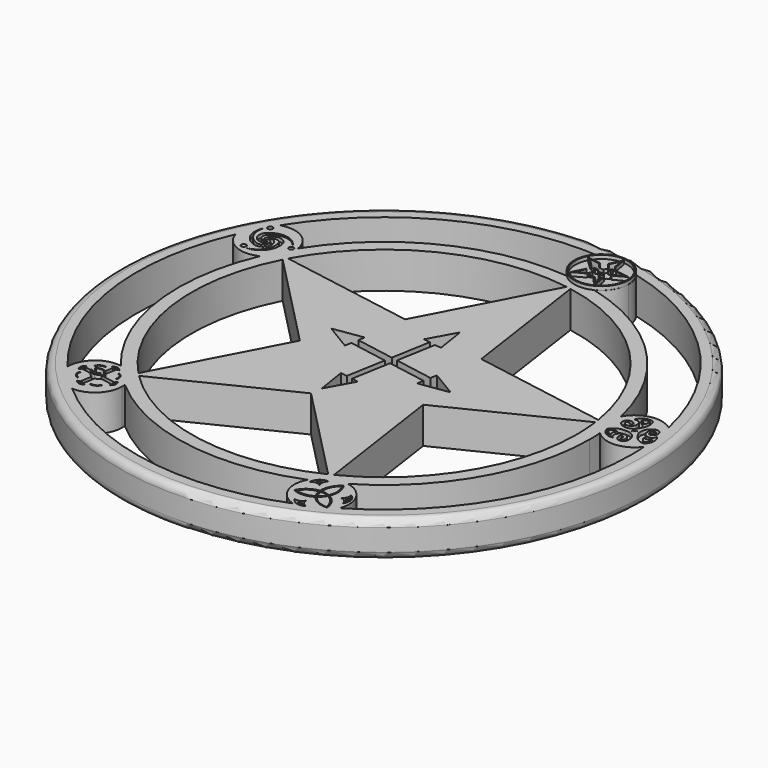
from build123d import *

# Parameters (mm, degrees)
F0_R     = 92.4283709027
F1_DEPTH = 12.7
F2_R     = 2.54
F3_R     = 0.8604920508
F3_R_2   = 0.5765282515
F4_DEPTH = 1.27
F3_R_3   = 9.4978824221
F3_R_4   = 9.1016326017
F5_DEPTH = 1.27
F6_DEPTH = 12.7010001


with BuildPart() as f1:
    # F0 (on Top) → F1 (new body)
    with BuildSketch(Plane.XY):
        with Locations((-145.8070848139, 0)):
            Circle(F0_R)
        with BuildLine():
            ThreePointArc((-56.836883254, 0), (-70.2532959448, -46.9821429178), (-106.4562325292, -79.7947817221))
            ThreePointArc((-106.4562325292, -79.7947817221), (-160.8737724075, -87.6851851259), (-209.5363497373, -62.082828205))
            ThreePointArc((-209.5363497373, -62.082828205), (-233.8565139875, -12.7669412082), (-224.5447892102, 41.4254833649))
            ThreePointArc((-224.5447892102, 41.4254833649), (-185.1579375731, 79.7947814881), (-130.7403976657, 87.6851852025))
            ThreePointArc((-130.7403976657, 87.6851852025), (-82.0778201853, 62.0828285077), (-57.7576556791, 12.7669414757))
            ThreePointArc((-57.7576556791, 12.7669414757), (-57.0673749232, 6.4000511034), (-56.836883254, 0))
        make_face(mode=Mode.SUBTRACT)
        with BuildLine():
            Line((-157.6194526744, 23.9528561759), (-126.6767872766, 18.6360690487))
            Line((-126.6767872766, 18.6360690487), (-133.5896038392, 66.3115099335))
            ThreePointArc((-133.5896038392, 66.3115099335), (-134.3885338318, 66.4537424416), (-135.1891177039, 66.5863496933))
            Line((-135.1891177039, 66.5863496933), (-157.6194526744, 23.9528561759))
        make_face()
        Polygon((-150.3298140815, -26.3214033332), (-122.1715428605, -12.4351320871), (-126.6767872766, 18.6360690487), (-157.6194526744, 23.9528561759), (-172.2378271766, -3.8323898044), align=None)
        with BuildLine():
            Line((-205.8533343033, 30.6746004584), (-172.2378271766, -3.8323898044))
            Line((-172.2378271766, -3.8323898044), (-157.6194526744, 23.9528561759))
            Line((-157.6194526744, 23.9528561759), (-205.0976691919, 32.1108983858))
            ThreePointArc((-205.0976691919, 32.1108983858), (-205.4798232906, 31.3950230724), (-205.8533343033, 30.6746004584))
        make_face()
        with BuildLine():
            Line((-126.6767872766, 18.6360690487), (-122.1715428605, -12.4351320871))
            Line((-122.1715428605, -12.4351320871), (-78.9656819367, 8.8718685984))
            ThreePointArc((-78.9656819367, 8.8718685984), (-79.077293728, 9.6756484361), (-79.1985707591, 10.4780268389))
            Line((-79.1985707591, 10.4780268389), (-126.6767872766, 18.6360690487))
        make_face()
        with BuildLine():
            Line((-115.2587262979, -60.1105729718), (-122.1715428605, -12.4351320871))
            Line((-122.1715428605, -12.4351320871), (-150.3298140815, -26.3214033332))
            Line((-150.3298140815, -26.3214033332), (-116.7143069547, -60.8283935959))
            ThreePointArc((-116.7143069547, -60.8283935959), (-115.9843568427, -60.4738628449), (-115.2587262979, -60.1105729718))
        make_face()
        with BuildLine():
            ThreePointArc((-205.0976691919, 32.1108983858), (-175.6298127851, 60.4738628449), (-135.1891177039, 66.5863496933))
            Line((-135.1891177039, 66.5863496933), (-133.9664258695, 68.9103285578))
            ThreePointArc((-133.9664258695, 68.9103285578), (-176.7322653602, 62.7093915962), (-207.6857369904, 32.5555984586))
            Line((-207.6857369904, 32.5555984586), (-205.0976691919, 32.1108983858))
        make_face()
        with BuildLine():
            ThreePointArc((-207.6857369904, 32.5555984586), (-176.7322653602, 62.7093915962), (-133.9664258695, 68.9103285578))
            ThreePointArc((-133.9664258695, 68.9103285578), (-136.8257263119, 69.8879990265), (-139.2348929998, 71.7121027611))
            ThreePointArc((-139.2348929998, 71.7121027611), (-177.6577323205, 64.5860328637), (-206.7013442969, 38.4409748794))
            ThreePointArc((-206.7013442969, 38.4409748794), (-206.6180739716, 37.7178816069), (-206.590263062, 36.9905409845))
            ThreePointArc((-206.590263062, 36.9905409845), (-206.8681862041, 34.7064230839), (-207.6857369904, 32.5555984586))
        make_face()
        with BuildLine():
            Line((-207.6857369904, 32.5555984586), (-205.8533343033, 30.6746004584))
            ThreePointArc((-205.8533343033, 30.6746004584), (-205.4798232906, 31.3950230724), (-205.0976691919, 32.1108983858))
            Line((-205.0976691919, 32.1108983858), (-207.6857369904, 32.5555984586))
        make_face()
        with BuildLine():
            Line((-195.8908539814, -48.7898621863), (-194.668162147, -46.4658833218))
            ThreePointArc((-194.668162147, -46.4658833218), (-212.5368758998, -9.6756484361), (-205.8533343033, 30.6746004584))
            Line((-205.8533343033, 30.6746004584), (-207.6857369904, 32.5555984586))
            ThreePointArc((-207.6857369904, 32.5555984586), (-215.0036666672, -10.033326766), (-195.8908539814, -48.7898621863))
        make_face()
        with BuildLine():
            ThreePointArc((-211.9784284812, 28.4107843067), (-209.4991292892, 30.1383589306), (-207.6857369904, 32.5555984586))
            ThreePointArc((-207.6857369904, 32.5555984586), (-206.8681862041, 34.7064230839), (-206.590263062, 36.9905409845))
            ThreePointArc((-206.590263062, 36.9905409845), (-206.6180739716, 37.7178816069), (-206.7013442969, 38.4409748794))
            ThreePointArc((-206.7013442969, 38.4409748794), (-209.5375175499, 33.5298573057), (-211.9784284812, 28.4107843067))
        make_face()
        with BuildLine():
            ThreePointArc((-201.1839855058, -46.0349677682), (-198.3161187255, -46.9872170504), (-195.8908539814, -48.7898621863))
            ThreePointArc((-195.8908539814, -48.7898621863), (-215.0036666672, -10.033326766), (-207.6857369904, 32.5555984586))
            ThreePointArc((-207.6857369904, 32.5555984586), (-209.4991292892, 30.1383589306), (-211.9784284812, 28.4107843067))
            ThreePointArc((-211.9784284812, 28.4107843067), (-217.074443592, -10.3335841052), (-201.1839855058, -46.0349677682))
        make_face()
        with BuildLine():
            ThreePointArc((-225.2754386453, 34.3796391704), (-220.015941952, 28.3008730278), (-211.9784284812, 28.4107843067))
            ThreePointArc((-211.9784284812, 28.4107843067), (-209.5375175499, 33.5298573057), (-206.7013442969, 38.4409748794))
            ThreePointArc((-206.7013442969, 38.4409748794), (-211.1633180534, 45.1271167773), (-219.1520077235, 46.0184868672))
            ThreePointArc((-219.1520077235, 46.0184868672), (-222.4350175866, 40.3154904367), (-225.2754386453, 34.3796391704))
        make_face()
        with BuildLine():
            ThreePointArc((-224.5447892102, 41.4254833649), (-225.5894586402, 37.9730088701), (-225.2754386453, 34.3796391704))
            ThreePointArc((-225.2754386453, 34.3796391704), (-222.4350175866, 40.3154904367), (-219.1520077235, 46.0184868672))
            ThreePointArc((-219.1520077235, 46.0184868672), (-222.2912457258, 44.2419452028), (-224.5447892102, 41.4254833649))
        make_face()
        with BuildLine():
            ThreePointArc((-209.5363497373, -62.082828205), (-211.5185806892, -59.0692465166), (-212.2380942492, -55.534672373))
            ThreePointArc((-212.2380942492, -55.534672373), (-231.4972353885, -12.4248518976), (-225.2754386453, 34.3796391704))
            ThreePointArc((-225.2754386453, 34.3796391704), (-225.5894586402, 37.9730088701), (-224.5447892102, 41.4254833649))
            ThreePointArc((-224.5447892102, 41.4254833649), (-233.8565139875, -12.7669412082), (-209.5363497373, -62.082828205))
        make_face()
        with BuildLine():
            Line((-193.5356750053, -47.6284040187), (-150.3298140815, -26.3214033332))
            Line((-150.3298140815, -26.3214033332), (-172.2378271766, -3.8323898044))
            Line((-172.2378271766, -3.8323898044), (-194.668162147, -46.4658833218))
            ThreePointArc((-194.668162147, -46.4658833218), (-194.1054163763, -47.0505511052), (-193.5356750053, -47.6284040187))
        make_face()
        with BuildLine():
            Line((-195.8908539814, -48.7898621863), (-193.5356750053, -47.6284040187))
            ThreePointArc((-193.5356750053, -47.6284040187), (-194.1054163763, -47.0505511052), (-194.668162147, -46.4658833218))
            Line((-194.668162147, -46.4658833218), (-195.8908539814, -48.7898621863))
        make_face()
        with BuildLine():
            ThreePointArc((-193.2754160956, -54.1532724125), (-194.1522916146, -51.2614688423), (-195.8908539814, -48.7898621863))
            ThreePointArc((-195.8908539814, -48.7898621863), (-198.3161187255, -46.9872170504), (-201.1839855058, -46.0349677682))
            ThreePointArc((-201.1839855058, -46.0349677682), (-197.3896608692, -50.2499476135), (-193.2754160956, -54.1532724125))
        make_face()
        with BuildLine():
            ThreePointArc((-193.1886017807, -55.4363452764), (-193.2103301427, -54.7933420301), (-193.2754160956, -54.1532724125))
            ThreePointArc((-193.2754160956, -54.1532724125), (-197.3896608692, -50.2499476135), (-201.1839855058, -46.0349677682))
            ThreePointArc((-201.1839855058, -46.0349677682), (-208.9217100459, -48.2124255116), (-212.2380942492, -55.534672373))
            ThreePointArc((-212.2380942492, -55.534672373), (-207.828728172, -60.4193231122), (-203.0611365237, -64.9550029865))
            ThreePointArc((-203.0611365237, -64.9550029865), (-196.102423498, -62.2933086505), (-193.1886017807, -55.4363452764))
        make_face()
        with BuildLine():
            ThreePointArc((-203.0611365237, -64.9550029865), (-207.828728172, -60.4193231122), (-212.2380942492, -55.534672373))
            ThreePointArc((-212.2380942492, -55.534672373), (-211.5185806892, -59.0692465166), (-209.5363497373, -62.082828205))
            ThreePointArc((-209.5363497373, -62.082828205), (-206.5756718852, -64.1432413656), (-203.0611365237, -64.9550029865))
        make_face()
        with BuildLine():
            ThreePointArc((-116.7143069547, -60.8283935959), (-157.225635796, -66.4537424416), (-193.5356750053, -47.6284040187))
            Line((-193.5356750053, -47.6284040187), (-195.8908539814, -48.7898621863))
            ThreePointArc((-195.8908539814, -48.7898621863), (-157.6477437583, -68.9103285578), (-114.8819042676, -62.7093915962))
            Line((-114.8819042676, -62.7093915962), (-116.7143069547, -60.8283935959))
        make_face()
        with BuildLine():
            ThreePointArc((-119.1376321501, -66.8921496311), (-117.3457696924, -64.458907453), (-114.8819042676, -62.7093915962))
            ThreePointArc((-114.8819042676, -62.7093915962), (-157.6477437583, -68.9103285578), (-195.8908539814, -48.7898621863))
            ThreePointArc((-195.8908539814, -48.7898621863), (-194.1522916146, -51.2614688423), (-193.2754160956, -54.1532724125))
            ThreePointArc((-193.2754160956, -54.1532724125), (-158.0020873206, -70.9725390663), (-119.1376321501, -66.8921496311))
        make_face()
        with BuildLine():
            ThreePointArc((-106.4562325292, -79.7947817221), (-109.9348620248, -80.7487473718), (-113.5187836422, -80.3408019478))
            ThreePointArc((-113.5187836422, -80.3408019478), (-160.4700612308, -85.3356664752), (-203.0611365237, -64.9550029865))
            ThreePointArc((-203.0611365237, -64.9550029865), (-206.5756718852, -64.1432413656), (-209.5363497373, -62.082828205))
            ThreePointArc((-209.5363497373, -62.082828205), (-160.8737724075, -87.6851851259), (-106.4562325292, -79.7947817221))
        make_face()
        with BuildLine():
            Line((-114.8819042676, -62.7093915962), (-115.2587262979, -60.1105729718))
            ThreePointArc((-115.2587262979, -60.1105729718), (-115.9843568427, -60.4738628449), (-116.7143069547, -60.8283935959))
            Line((-116.7143069547, -60.8283935959), (-114.8819042676, -62.7093915962))
        make_face()
        with BuildLine():
            ThreePointArc((-108.9727832679, -61.8793472596), (-111.9940213346, -61.8196889884), (-114.8819042676, -62.7093915962))
            ThreePointArc((-114.8819042676, -62.7093915962), (-117.3457696924, -64.458907453), (-119.1376321501, -66.8921496311))
            ThreePointArc((-119.1376321501, -66.8921496311), (-113.9564373073, -64.5860328637), (-108.9727832679, -61.8793472596))
        make_face()
        with BuildLine():
            ThreePointArc((-78.3794703594, 0), (-88.3341079845, -35.2610284222), (-115.2587262979, -60.1105729718))
            Line((-115.2587262979, -60.1105729718), (-114.8819042676, -62.7093915962))
            ThreePointArc((-114.8819042676, -62.7093915962), (-86.4306187551, -36.9224845393), (-75.886883254, 0))
            ThreePointArc((-75.886883254, 0), (-76.0680228162, 5.0296936158), (-76.6105029605, 10.033326766))
            Line((-76.6105029605, 10.033326766), (-78.9656819367, 8.8718685984))
            ThreePointArc((-78.9656819367, 8.8718685984), (-78.5261828661, 4.4456072825), (-78.3794703594, 0))
        make_face()
        with BuildLine():
            ThreePointArc((-75.886883254, 0), (-86.4306187551, -36.9224845393), (-114.8819042676, -62.7093915962))
            ThreePointArc((-114.8819042676, -62.7093915962), (-111.9940213346, -61.8196889884), (-108.9727832679, -61.8793472596))
            ThreePointArc((-108.9727832679, -61.8793472596), (-83.2037524499, -35.5899166139), (-73.7944512857, 0))
            ThreePointArc((-73.7944512857, 0), (-73.8327376206, 2.3479211568), (-73.9475559144, 4.6933457156))
            ThreePointArc((-73.9475559144, 4.6933457156), (-75.7079907927, 7.1494213668), (-76.6105029605, 10.033326766))
            ThreePointArc((-76.6105029605, 10.033326766), (-76.0680228162, 5.0296936158), (-75.886883254, 0))
        make_face()
        with BuildLine():
            ThreePointArc((-101.1440682326, -71.2520865774), (-103.3587078007, -65.1460031063), (-108.9727832679, -61.8793472596))
            ThreePointArc((-108.9727832679, -61.8793472596), (-113.9564373073, -64.5860328637), (-119.1376321501, -66.8921496311))
            ThreePointArc((-119.1376321501, -66.8921496311), (-119.457835155, -74.9240344235), (-113.5187836422, -80.3408019478))
            ThreePointArc((-113.5187836422, -80.3408019478), (-107.5106356746, -77.6566856973), (-101.7236809327, -74.5240387554))
            ThreePointArc((-101.7236809328, -74.5240387554), (-101.2900907022, -72.9135333819), (-101.1440682326, -71.2520865774))
        make_face()
        with BuildLine():
            ThreePointArc((-101.7236809327, -74.5240387554), (-107.5106356746, -77.6566856973), (-113.5187836422, -80.3408019478))
            ThreePointArc((-113.5187836422, -80.3408019478), (-109.9348620248, -80.7487473718), (-106.4562325292, -79.7947817221))
            ThreePointArc((-106.4562325292, -79.7947817221), (-103.5817633142, -77.6157124301), (-101.7236809328, -74.5240387554))
        make_face()
        with BuildLine():
            ThreePointArc((-57.6590793026, 11.4001340022), (-58.1101940842, 8.5035442759), (-59.4208078155, 5.8813260858))
            ThreePointArc((-59.4208078155, 5.8813260858), (-59.2708418076, 2.9423624055), (-59.2208338836, 0))
            ThreePointArc((-59.2208338836, 0), (-70.5934041418, -42.896166378), (-101.7236809327, -74.5240387554))
            ThreePointArc((-101.7236809328, -74.5240387554), (-103.5817633142, -77.6157124301), (-106.4562325292, -79.7947817221))
            ThreePointArc((-106.4562325292, -79.7947817221), (-70.2532959448, -46.9821429178), (-56.836883254, 0))
            ThreePointArc((-56.836883254, 0), (-57.0673749232, 6.4000511034), (-57.7576556791, 12.7669414757))
            ThreePointArc((-57.7576556791, 12.7669414757), (-57.6837553604, 12.0853128058), (-57.6590793026, 11.4001340022))
        make_face()
        with BuildLine():
            ThreePointArc((-75.5739032249, 15.9097326044), (-76.5642555192, 13.0547998735), (-76.6105029605, 10.033326766))
            ThreePointArc((-76.6105029605, 10.033326766), (-75.7079907927, 7.1494213668), (-73.9475559144, 4.6933457156))
            ThreePointArc((-73.9475559144, 4.6933457156), (-74.5397260358, 10.3335841052), (-75.5739032249, 15.9097326044))
        make_face()
        with BuildLine():
            ThreePointArc((-79.1985707591, 10.4780268389), (-79.077293728, 9.6756484361), (-78.9656819367, 8.8718685984))
            Line((-78.9656819367, 8.8718685984), (-76.6105029605, 10.033326766))
            Line((-76.6105029605, 10.033326766), (-79.1985707591, 10.4780268389))
        make_face()
        with BuildLine():
            ThreePointArc((-133.5896038392, 66.3115099335), (-97.5087532515, 47.0505511052), (-79.1985707591, 10.4780268389))
            Line((-79.1985707591, 10.4780268389), (-76.6105029605, 10.033326766))
            ThreePointArc((-76.6105029605, 10.033326766), (-95.7233156464, 48.7898621863), (-133.9664258695, 68.9103285578))
            Line((-133.9664258695, 68.9103285578), (-133.5896038392, 66.3115099335))
        make_face()
        with BuildLine():
            ThreePointArc((-133.9664258695, 68.9103285578), (-95.7233156464, 48.7898621863), (-76.6105029605, 10.033326766))
            ThreePointArc((-76.6105029605, 10.033326766), (-76.5642555192, 13.0547998735), (-75.5739032249, 15.9097326044))
            ThreePointArc((-75.5739032249, 15.9097326044), (-94.2245087586, 50.2499476135), (-128.0649062022, 69.7927968043))
            ThreePointArc((-128.0649062022, 69.7927968043), (-130.9447772497, 68.8774928575), (-133.9664258695, 68.9103285578))
        make_face()
        with BuildLine():
            ThreePointArc((-61.3079911658, 18.8966140568), (-69.1360224632, 20.7229845801), (-75.5739032249, 15.9097326044))
            ThreePointArc((-75.5739032249, 15.9097326044), (-74.5397260358, 10.3335841052), (-73.9475559144, 4.6933457156))
            ThreePointArc((-73.9475559144, 4.6933457156), (-66.4077277146, 1.9068256636), (-59.4208078155, 5.8813260858))
            ThreePointArc((-59.4208078155, 5.8813260858), (-60.1169342393, 12.4248518976), (-61.3079911658, 18.8966140568))
        make_face()
        with BuildLine():
            ThreePointArc((-57.7576556791, 12.7669414757), (-58.9418139567, 16.1740932572), (-61.3079911658, 18.8966140568))
            ThreePointArc((-61.3079911658, 18.8966140568), (-60.1169342393, 12.4248518976), (-59.4208078155, 5.8813260858))
            ThreePointArc((-59.4208078155, 5.8813260858), (-58.1101940842, 8.5035442759), (-57.6590793026, 11.4001340022))
            ThreePointArc((-57.6590793026, 11.4001340022), (-57.6837553604, 12.0853128058), (-57.7576556791, 12.7669414757))
        make_face()
        with BuildLine():
            ThreePointArc((-124.705730639, 83.9756613678), (-83.7854414558, 60.4193231122), (-61.3079911658, 18.8966140568))
            ThreePointArc((-61.3079911658, 18.8966140568), (-58.9418139567, 16.1740932572), (-57.7576556791, 12.7669414757))
            ThreePointArc((-57.7576556791, 12.7669414757), (-82.0778201853, 62.0828285077), (-130.7403976657, 87.6851852025))
            ThreePointArc((-130.7403976657, 87.6851852025), (-127.3654000532, 86.4122725579), (-124.705730639, 83.9756613678))
        make_face()
        with BuildLine():
            ThreePointArc((-219.1520077235, 46.0184868672), (-184.1035339532, 77.6566856973), (-137.6671768019, 86.2027885148))
            ThreePointArc((-137.6671768019, 86.2027885148), (-134.3467166437, 87.6118515825), (-130.7403976657, 87.6851852025))
            ThreePointArc((-130.7403976657, 87.6851852025), (-185.1579375731, 79.7947814881), (-224.5447892102, 41.4254833649))
            ThreePointArc((-224.5447892102, 41.4254833649), (-222.2912457258, 44.2419452028), (-219.1520077235, 46.0184868672))
        make_face()
        with BuildLine():
            ThreePointArc((-130.7403976657, 87.6851852025), (-134.3467166437, 87.6118515825), (-137.6671768019, 86.2027885148))
            ThreePointArc((-137.6671768019, 86.2027885148), (-131.144108397, 85.3356664752), (-124.705730639, 83.9756613678))
            ThreePointArc((-124.705730639, 83.9756613678), (-127.3654000532, 86.4122725579), (-130.7403976657, 87.6851852025))
        make_face()
        with BuildLine():
            ThreePointArc((-137.6671768019, 86.2027885148), (-141.8231530927, 79.3222678693), (-139.2348929998, 71.7121027611))
            ThreePointArc((-139.2348929998, 71.7121027611), (-133.6120823072, 70.9725390663), (-128.0649062022, 69.7927968043))
            ThreePointArc((-128.0649062022, 69.7927968043), (-124.2425042273, 73.3038801057), (-122.8284116915, 78.2977568671))
            ThreePointArc((-122.8284116915, 78.2977568671), (-123.3099116217, 81.2878624651), (-124.705730639, 83.9756613678))
            ThreePointArc((-124.705730639, 83.9756613678), (-131.144108397, 85.3356664752), (-137.6671768019, 86.2027885148))
        make_face()
        with BuildLine():
            ThreePointArc((-139.2348929998, 71.7121027611), (-136.8257263119, 69.8879990265), (-133.9664258695, 68.9103285578))
            ThreePointArc((-133.9664258695, 68.9103285578), (-130.9447772497, 68.8774928575), (-128.0649062022, 69.7927968043))
            ThreePointArc((-128.0649062022, 69.7927968043), (-133.6120823072, 70.9725390663), (-139.2348929998, 71.7121027611))
        make_face()
        with BuildLine():
            ThreePointArc((-135.1891177039, 66.5863496933), (-134.3885338318, 66.4537424416), (-133.5896038392, 66.3115099335))
            Line((-133.5896038392, 66.3115099335), (-133.9664258695, 68.9103285578))
            Line((-133.9664258695, 68.9103285578), (-135.1891177039, 66.5863496933))
        make_face()
    extrude(amount=F1_DEPTH)

    # F2
    f2_edges = [f1.edges().sort_by_distance(p)[0] for p in [
        (-238.235456, 0, 12.7),
        (-238.235456, 0, 0),
    ]]
    fillet(f2_edges, radius=F2_R)

    # F3 (on face) → F4 (cut)
    with BuildSketch(Plane.XY.offset(12.7)):
        with Locations((-220.2107012272, 43.2026311755)):
            Circle(F3_R)
        with Locations((-219.421222806, 30.5718611926)):
            Circle(F3_R)
        with Locations((-208.2211375237, 37.3777449131)):
            Circle(F3_R)
        with BuildLine():
            Line((-203.8917711863, -49.39728311), (-203.8272794631, -49.0315323727))
            ThreePointArc((-203.8272794631, -49.0315323727), (-205.6652610461, -49.2550670924), (-206.8441545547, -50.6827765045))
            Line((-206.8441545547, -50.6827765045), (-206.5361198449, -50.7370913348))
            ThreePointArc((-206.5361198449, -50.7370913348), (-205.4718845911, -49.5580988054), (-203.8917711863, -49.39728311))
        make_face()
        with BuildLine():
            Line((-207.3961431722, -55.9520267455), (-207.7618939094, -55.8875350223))
            ThreePointArc((-207.7618939094, -55.8875350223), (-207.5383591898, -57.7255166053), (-206.1106497777, -58.9044101139))
            Line((-206.1106497777, -58.9044101139), (-206.0563349474, -58.5963754041))
            ThreePointArc((-206.0563349474, -58.5963754041), (-207.2353274768, -57.5321401503), (-207.3961431722, -55.9520267455))
        make_face()
        with BuildLine():
            Line((-200.8413995366, -59.4563987314), (-200.9058912598, -59.8221494687))
            ThreePointArc((-200.9058912598, -59.8221494687), (-199.0679096769, -59.598614749), (-197.8890161683, -58.1709053369))
            Line((-197.8890161683, -58.1709053369), (-198.197050878, -58.1165905066))
            ThreePointArc((-198.197050878, -58.1165905066), (-199.2612861318, -59.2955830361), (-200.8413995366, -59.4563987314))
        make_face()
        with BuildLine():
            Line((-197.3370275508, -52.9016550959), (-196.9712768135, -52.9661468191))
            ThreePointArc((-196.9712768135, -52.9661468191), (-197.1948115331, -51.1281652361), (-198.6225209453, -49.9492717275))
            Line((-198.6225209453, -49.9492717275), (-198.6768357756, -50.2573064373))
            ThreePointArc((-198.6768357756, -50.2573064373), (-197.4978432461, -51.3215416911), (-197.3370275508, -52.9016550959))
        make_face()
        with BuildLine():
            ThreePointArc((-67.0809522271, 11.4335455), (-67.0153158531, 11.4502539008), (-67.0328512788, 11.5156741813))
            ThreePointArc((-67.0328512788, 11.5156741813), (-67.3830919096, 11.5199904246), (-67.4067661166, 11.1705241725))
            ThreePointArc((-67.4067661166, 11.1705241725), (-66.6227977388, 11.2311808774), (-66.7643994093, 12.0046371594))
            ThreePointArc((-66.7643994093, 12.0046371594), (-67.888820211, 11.7003609825), (-67.5505772233, 10.5856871232))
            ThreePointArc((-67.5505772233, 10.5856871232), (-67.7974574251, 10.8953488731), (-67.8750351071, 11.2837068737))
            ThreePointArc((-67.8750351071, 11.2837068737), (-67.7872601719, 11.6872047041), (-67.4816891551, 11.9649479166))
            ThreePointArc((-67.4816891551, 11.9649479166), (-66.9644925203, 12.0332196218), (-66.5824040771, 11.6780269891))
            ThreePointArc((-66.5824040771, 11.6780269891), (-66.7156533226, 11.233918159), (-67.1624466777, 11.109967716))
            ThreePointArc((-67.1624466777, 11.109967716), (-67.3427834614, 11.3274375625), (-67.0809522271, 11.4335455))
        make_face()
        with BuildLine():
            ThreePointArc((-211.6691318504, 37.6715191678), (-214.5939473092, 40.2117420585), (-217.5877091638, 37.7531514541))
            ThreePointArc((-217.5877091638, 37.7531514541), (-217.0805228114, 38.0526889108), (-216.5683021248, 37.7618441889))
            ThreePointArc((-216.5683021248, 37.7618441889), (-214.4815123705, 38.9464761489), (-212.7712217323, 37.2633391098))
            ThreePointArc((-212.7712217323, 37.2633391098), (-213.7863400024, 32.3789027444), (-218.0775252334, 29.8345142082))
            ThreePointArc((-218.0775252334, 29.8345142082), (-213.0247148164, 32.2413876884), (-211.6691318504, 37.6715191678))
        make_face()
        with BuildLine():
            ThreePointArc((-217.5877091638, 37.7531514541), (-217.3498348034, 36.9453325873), (-216.5486585279, 37.2047012598))
            ThreePointArc((-216.5486585279, 37.2047012598), (-216.5032502303, 37.3313680979), (-216.4878449037, 37.465043366))
            ThreePointArc((-216.4878449037, 37.465043366), (-216.5083157507, 37.6187997422), (-216.5683021248, 37.7618441889))
            ThreePointArc((-216.5683021248, 37.7618441889), (-217.0805228114, 38.0526889108), (-217.5877091638, 37.7531514541))
        make_face()
        with BuildLine():
            ThreePointArc((-214.7185999713, 37.8844114796), (-215.5371287798, 38.0823156941), (-215.7130971321, 37.2587923929))
            ThreePointArc((-215.7130971321, 37.2587923929), (-215.4999258615, 37.0659177185), (-215.2207753616, 36.9972327196))
            ThreePointArc((-215.2207753616, 36.9972327196), (-214.807452611, 37.1705615953), (-214.6365406605, 37.5848896062))
            ThreePointArc((-214.6365406605, 37.5848896062), (-214.6574266373, 37.7401692597), (-214.7185999713, 37.8844114796))
        make_face()
        with BuildLine():
            ThreePointArc((-217.7485842617, 32.7995893151), (-214.0862789777, 34.0624423584), (-214.7185999713, 37.8844114796))
            ThreePointArc((-214.7185999713, 37.8844114796), (-214.6574266373, 37.7401692597), (-214.6365406605, 37.5848896062))
            ThreePointArc((-214.6365406605, 37.5848896062), (-214.807452611, 37.1705615953), (-215.2207753616, 36.9972327196))
            ThreePointArc((-215.2207753616, 36.9972327196), (-215.2382488673, 34.5977038), (-217.5510336203, 33.958117179))
            ThreePointArc((-217.5510336203, 33.958117179), (-221.2735204608, 37.2794535715), (-221.3314329548, 42.267923262))
            ThreePointArc((-221.3314329548, 42.267923262), (-221.7734245857, 36.6886243402), (-217.7485842617, 32.7995893151))
        make_face()
        with BuildLine():
            ThreePointArc((-215.4584028935, 35.9216899814), (-215.6441728306, 36.3504454129), (-216.0840335599, 36.5081293641))
            ThreePointArc((-216.0840335599, 36.5081293641), (-216.3576535243, 36.4199549521), (-216.5567116997, 36.2125460451))
            ThreePointArc((-216.5567116997, 36.2125460451), (-216.5524802741, 35.6235275572), (-216.039480051, 35.3340600199))
            ThreePointArc((-216.039480051, 35.3340600199), (-215.628203212, 35.508483122), (-215.4584028935, 35.9216899814))
        make_face()
        with BuildLine():
            ThreePointArc((-216.039480051, 35.3340600199), (-216.5524802741, 35.6235275572), (-216.5567116997, 36.2125460451))
            ThreePointArc((-216.5567116997, 36.2125460451), (-218.6260279483, 37.4274430047), (-218.0235338335, 39.7501666647))
            ThreePointArc((-218.0235338335, 39.7501666647), (-213.2859287228, 41.3132666376), (-208.9368309979, 38.8691854834))
            ThreePointArc((-208.9368309979, 38.8691854834), (-213.547649784, 42.0416109249), (-218.928073074, 40.5005144707))
            ThreePointArc((-218.928073074, 40.5005144707), (-219.6655628992, 36.6974385367), (-216.039480051, 35.3340600199))
        make_face()
        with BuildLine():
            ThreePointArc((-114.336040294, -67.5487584306), (-114.8450023373, -65.698024323), (-113.8471066952, -64.0583708882))
            ThreePointArc((-113.8471066952, -64.0583708882), (-116.6471942603, -64.887850953), (-117.8605034947, -67.5442410319))
            ThreePointArc((-117.8605034947, -67.5442410319), (-116.0972901438, -66.7805403999), (-114.336040294, -67.5487584306))
        make_face()
        with Locations((-116.0165071487, -65.6311884522)):
            Circle(F3_R_2, mode=Mode.SUBTRACT)
        with BuildLine():
            ThreePointArc((-105.6909567835, -69.7094492701), (-103.8143230631, -70.1125683317), (-102.8207096326, -71.7548202763))
            ThreePointArc((-102.8207096326, -71.7548202763), (-102.2635308859, -68.8881010027), (-104.0595338066, -66.5852981325))
            ThreePointArc((-104.0595338066, -66.5852981325), (-104.1962843923, -68.5019251837), (-105.6909567835, -69.7094492701))
        make_face()
        with Locations((-103.2140981995, -69.1042922435)):
            Circle(F3_R_2, mode=Mode.SUBTRACT)
        with BuildLine():
            ThreePointArc((-111.5993682876, -76.3800359989), (-112.8234722803, -77.8584907712), (-114.7389671695, -77.9815290899))
            ThreePointArc((-114.7389671695, -77.9815290899), (-112.4534326317, -79.7994563235), (-109.5815196812, -79.2696983082))
            ThreePointArc((-109.5815196812, -79.2696983082), (-111.2184442455, -78.2633991743), (-111.5993682876, -76.3800359989))
        make_face()
        with Locations((-112.2062734655, -78.856466813)):
            Circle(F3_R_2, mode=Mode.SUBTRACT)
        with BuildLine():
            ThreePointArc((-72.1006989479, 13.3701832965), (-72.2387171618, 14.3466602018), (-71.2622404099, 14.2086409032))
            ThreePointArc((-71.2622404099, 14.2086409032), (-70.3755989437, 14.1829940206), (-70.5311596394, 15.0562589988))
            ThreePointArc((-70.5311596394, 15.0562589988), (-72.9319617102, 14.9990327298), (-72.8991255164, 12.5977732241))
            ThreePointArc((-72.8991255164, 12.5977732241), (-69.702816169, 11.7555599643), (-67.1739429235, 13.8840610161))
            ThreePointArc((-67.1739429235, 13.8840610161), (-66.2660186501, 16.3883486978), (-66.771261394, 19.0037861466))
            ThreePointArc((-66.771261394, 19.0037861466), (-69.760598813, 18.9553519209), (-71.7137157917, 16.6917666793))
            ThreePointArc((-71.7137157917, 16.6917666793), (-69.9715849927, 16.6103465169), (-69.1983401775, 15.0470994413))
            ThreePointArc((-69.1983401775, 15.0470994413), (-70.0307857182, 13.1377544282), (-72.1006989479, 13.3701832965))
        make_face()
        with BuildLine():
            ThreePointArc((-67.557439208, 18.4860620648), (-67.4113620435, 17.1130960179), (-68.1326910853, 15.9357860684))
            ThreePointArc((-68.1326910853, 15.9357860684), (-68.626643594, 17.1274805348), (-69.8009133339, 17.6615361124))
            ThreePointArc((-69.8009133339, 17.6615361124), (-68.7960073041, 18.3916876877), (-67.557439208, 18.4860620648))
        make_face(mode=Mode.SUBTRACT)
        with BuildLine():
            ThreePointArc((-69.3402913873, 10.166948857), (-71.9630302748, 9.7010905017), (-73.9754441755, 7.955818726))
            ThreePointArc((-73.9754441755, 7.955818726), (-72.4388301961, 5.3911936936), (-69.5019493839, 4.8315373942))
            ThreePointArc((-69.5019493839, 4.8315373942), (-70.3025028544, 6.380977004), (-69.3353135821, 7.8322501951))
            ThreePointArc((-69.3353135821, 7.8322501951), (-67.2655495258, 8.0660037161), (-66.4318822155, 6.1571918415))
            ThreePointArc((-66.4318822155, 6.1571918415), (-67.2085269147, 5.5494261094), (-67.577237072, 6.4640894321))
            ThreePointArc((-67.577237072, 6.4640894321), (-67.9983469532, 7.2447669072), (-68.6768362607, 6.6734149038))
            ThreePointArc((-68.6768362607, 6.6734149038), (-67.4268758225, 4.6228724555), (-65.3637421864, 5.8519391863))
            ThreePointArc((-65.3637421864, 5.8519391863), (-66.2325187817, 9.0411309094), (-69.3402913873, 10.166948857))
        make_face()
        with BuildLine():
            ThreePointArc((-71.2981955777, 6.0031881985), (-72.4329784054, 6.5083865611), (-73.1339930614, 7.5338308081))
            ThreePointArc((-73.1339930614, 7.5338308081), (-72.0180081686, 8.3468203669), (-70.6377633233, 8.3107860669))
            ThreePointArc((-70.6377633233, 8.3107860669), (-71.4228247504, 7.287163413), (-71.2981955777, 6.0031881985))
        make_face(mode=Mode.SUBTRACT)
        with BuildLine():
            ThreePointArc((-65.0380035969, 10.1493921335), (-63.3231889829, 8.1109628071), (-60.8055323383, 7.240797134))
            ThreePointArc((-60.8055323383, 7.240797134), (-59.3528088987, 9.8538563922), (-60.3365727322, 12.6770979332))
            ThreePointArc((-60.3365727322, 12.6770979332), (-61.2781500607, 11.2090784857), (-63.0185841482, 11.3210523702))
            ThreePointArc((-63.0185841482, 11.3210523702), (-64.2559026637, 12.9966438623), (-63.0196567444, 14.6730268687))
            ThreePointArc((-63.0196567444, 14.6730268687), (-62.1049938312, 14.3043156955), (-62.712760426, 13.5276716713))
            ThreePointArc((-62.712760426, 13.5276716713), (-63.1782920109, 12.7726410788), (-62.3442420077, 12.4707281041))
            ThreePointArc((-62.3442420077, 12.4707281041), (-61.1934003751, 14.5784968214), (-63.2893702049, 15.7506895962))
            ThreePointArc((-63.2893702049, 15.7506895962), (-65.616902957, 13.4037111329), (-65.0380035969, 10.1493921335))
        make_face()
        with BuildLine():
            ThreePointArc((-60.4531289962, 10.5356776957), (-60.3232521983, 9.3003277578), (-60.8608056383, 8.1805091338))
            ThreePointArc((-60.8608056383, 8.1805091338), (-62.1228676957, 8.7404856218), (-62.7817834991, 9.9538298713))
            ThreePointArc((-62.7817834991, 9.9538298713), (-61.5027695634, 9.7857580589), (-60.4531289962, 10.5356776957))
        make_face(mode=Mode.SUBTRACT)
        with BuildLine():
            Line((-202.8225942733, -47.9065380924), (-201.9950638826, -48.4322496016))
            Line((-201.9950638826, -48.4322496016), (-202.7387681164, -52.6500059019))
            ThreePointArc((-202.7387681164, -52.6500059019), (-202.0585920812, -52.6746199175), (-201.4102357838, -52.8816933351))
            Line((-201.4102357838, -52.8816933351), (-200.6669708171, -48.666428242))
            Line((-200.6669708171, -48.666428242), (-199.7918528041, -48.4409395849))
            ThreePointArc((-199.7918528041, -48.4409395849), (-201.1820780916, -47.4640037397), (-202.8225942733, -47.9065380924))
        make_face()
        with BuildLine():
            Line((-200.6521148195, -48.1472786156), (-201.4223089669, -48.6509302367))
            Line((-201.4223089669, -48.6509302367), (-201.9295422814, -47.8830901852))
            ThreePointArc((-201.9295422814, -47.8830901852), (-201.2439259194, -47.7883966152), (-200.6521148195, -48.1472786156))
        make_face(mode=Mode.SUBTRACT)
        with BuildLine():
            ThreePointArc((-202.0282983595, -56.395908307), (-202.7098684344, -56.377657281), (-203.3561729609, -56.160490695))
            Line((-203.3561729609, -56.160490695), (-204.0661999059, -60.1872535994))
            Line((-204.0661999059, -60.1872535994), (-204.9413179189, -60.4127422565))
            ThreePointArc((-204.9413179189, -60.4127422565), (-203.5510926314, -61.3896781017), (-201.9105764497, -60.947143749))
            Line((-201.9105764497, -60.947143749), (-202.7381068404, -60.4214322398))
            Line((-202.7381068404, -60.4214322398), (-202.0282983595, -56.395908307))
        make_face()
        with BuildLine():
            ThreePointArc((-202.8036284415, -60.9705916562), (-203.4892448036, -61.0652852262), (-204.0810559035, -60.7064032258))
            Line((-204.0810559035, -60.7064032258), (-203.3108617561, -60.2027516047))
            Line((-203.3108617561, -60.2027516047), (-202.8036284415, -60.9705916562))
        make_face(mode=Mode.SUBTRACT)
        with BuildLine():
            ThreePointArc((-104.6407908683, -76.4326159713), (-105.7945817207, -72.9465061531), (-108.5368488186, -70.5043419164))
            ThreePointArc((-108.5368488186, -70.5043419164), (-108.6282828455, -70.6958683434), (-108.7254053027, -70.884573886))
            ThreePointArc((-108.7254053027, -70.884573886), (-106.2771573372, -73.0832195843), (-105.0064042211, -76.1185362935))
            ThreePointArc((-105.0064042211, -76.1185362935), (-108.2368275438, -75.4009207086), (-110.7207859761, -73.2144721091))
            ThreePointArc((-110.7207859761, -73.2144721091), (-110.9021592496, -73.3463932766), (-111.0876120677, -73.4725150869))
            ThreePointArc((-111.0876120677, -73.4725150869), (-108.2607797887, -75.8162757962), (-104.6407908683, -76.4326159713))
        make_face()
        with BuildLine():
            ThreePointArc((-109.2954427004, -64.0898868442), (-108.3471054451, -67.1672556441), (-108.8805780755, -70.3429365527))
            ThreePointArc((-108.8805780755, -70.3429365527), (-108.7076332466, -70.421338837), (-108.5368488186, -70.5043419164))
            ThreePointArc((-108.5368488186, -70.5043419164), (-107.9205086434, -66.8843529959), (-109.1967368546, -63.4411805418))
            ThreePointArc((-109.1967368546, -63.4411805418), (-111.6389010913, -66.1834476398), (-112.3827438116, -69.7794027289))
            ThreePointArc((-112.3827438116, -69.7794027289), (-112.1072174878, -69.7590644813), (-111.831108184, -69.7494701213))
            ThreePointArc((-111.831108184, -69.7494701213), (-111.3184611261, -66.5813323221), (-109.2954427004, -64.0898868442))
        make_face()
        with BuildLine():
            ThreePointArc((-108.5368488186, -70.5043419164), (-108.7076332466, -70.421338837), (-108.8805780755, -70.3429365527))
            ThreePointArc((-108.8805780755, -70.3429365527), (-108.9657271105, -70.5386179555), (-109.0586343058, -70.7307372482))
            ThreePointArc((-109.0586343058, -70.7307372482), (-108.8908210697, -70.8050589612), (-108.7254053027, -70.884573886))
            ThreePointArc((-108.7254053027, -70.884573886), (-108.6282828455, -70.6958683434), (-108.5368488186, -70.5043419164))
        make_face()
        with BuildLine():
            ThreePointArc((-111.7785918632, -70.277740552), (-111.8095560824, -70.0140731745), (-111.831108184, -69.7494701213))
            ThreePointArc((-111.831108184, -69.7494701213), (-112.1072174878, -69.7590644813), (-112.3827438116, -69.7794027289))
            ThreePointArc((-112.3827438116, -69.7794027289), (-112.3607403626, -70.0617211839), (-112.3274871203, -70.3429365527))
            ThreePointArc((-112.3274871203, -70.3429365527), (-112.0538048312, -70.3038950407), (-111.7785918632, -70.277740552))
        make_face()
        with BuildLine():
            ThreePointArc((-112.3274871203, -70.3429365527), (-112.3607403626, -70.0617211839), (-112.3827438116, -69.7794027289))
            ThreePointArc((-112.3827438116, -69.7794027289), (-115.8259162657, -71.0556309401), (-118.169676975, -73.882463219))
            ThreePointArc((-118.169676975, -73.882463219), (-114.5737218859, -74.6263059393), (-111.0876120677, -73.4725150869))
            ThreePointArc((-111.0876120677, -73.4725150869), (-111.2296010502, -73.2645262278), (-111.3641181331, -73.0516286206))
            ThreePointArc((-111.3641181331, -73.0516286206), (-114.3396557104, -74.0290976745), (-117.4542829394, -73.6999064684))
            ThreePointArc((-117.4542829394, -73.6999064684), (-115.3017239634, -71.3939844528), (-112.3274871203, -70.3429365527))
        make_face()
        with BuildLine():
            ThreePointArc((-110.7207859761, -73.2144721091), (-110.8397486917, -73.0165744006), (-110.9525226416, -72.8150857733))
            ThreePointArc((-110.9525226416, -72.8150857733), (-111.1556879026, -72.9379378422), (-111.3641181331, -73.0516286206))
            ThreePointArc((-111.3641181331, -73.0516286206), (-111.2296010502, -73.2645262278), (-111.0876120677, -73.4725150869))
            ThreePointArc((-111.0876120677, -73.4725150869), (-110.9021592496, -73.3463932766), (-110.7207859761, -73.2144721091))
        make_face()
        with BuildLine():
            ThreePointArc((-201.4675713861, -53.206859694), (-202.111784776, -52.9756406235), (-202.7962357032, -52.9759207822))
            Line((-202.7962357032, -52.9759207822), (-202.9144486079, -53.6463394795))
            Line((-202.9144486079, -53.6463394795), (-203.8184334637, -53.4869425593))
            Line((-203.8184334637, -53.4869425593), (-204.2900221639, -53.4037887476))
            Line((-204.2900221639, -53.4037887476), (-208.1269980402, -52.7272263763))
            Line((-208.1269980402, -52.7272263763), (-208.3524866972, -51.8521083633))
            ThreePointArc((-208.3524866972, -51.8521083633), (-209.3294225425, -53.2423336508), (-208.8868881898, -54.8828498325))
            Line((-208.8868881898, -54.8828498325), (-208.3611766805, -54.0553194418))
            Line((-208.3611766805, -54.0553194418), (-204.5242008043, -54.7318818131))
            Line((-204.5242008043, -54.7318818131), (-204.052612104, -54.8150356248))
            Line((-204.052612104, -54.8150356248), (-203.1470868027, -54.9747041671))
            Line((-203.1470868027, -54.9747041671), (-203.2875550497, -55.7713391825))
            ThreePointArc((-203.2875550497, -55.7713391825), (-202.6462109073, -56.0163067974), (-201.9597371109, -56.0070781441))
            Line((-201.9597371109, -56.0070781441), (-201.8187221151, -55.2073423619))
            Line((-201.8187221151, -55.2073423619), (-200.9084158134, -55.3678539236))
            Line((-200.9084158134, -55.3678539236), (-200.4368271131, -55.4510077352))
            Line((-200.4368271131, -55.4510077352), (-196.6061726827, -56.1264554651))
            Line((-196.6061726827, -56.1264554651), (-196.3806840257, -57.0015734781))
            ThreePointArc((-196.3806840257, -57.0015734781), (-195.4037481805, -55.6113481906), (-195.8462825331, -53.9708320089))
            Line((-195.8462825331, -53.9708320089), (-196.3719940424, -54.7983623996))
            Line((-196.3719940424, -54.7983623996), (-200.2026484728, -54.1229146698))
            Line((-200.2026484728, -54.1229146698), (-200.674237173, -54.0397608581))
            Line((-200.674237173, -54.0397608581), (-201.5860839203, -53.8789776743))
            Line((-201.5860839203, -53.8789776743), (-201.4675713861, -53.206859694))
        make_face()
        with BuildLine():
            ThreePointArc((-208.910336097, -53.9897978407), (-209.005029667, -53.3041814786), (-208.6461476666, -52.7123703787))
            Line((-208.6461476666, -52.7123703787), (-208.1424960455, -53.4825645261))
            Line((-208.1424960455, -53.4825645261), (-208.910336097, -53.9897978407))
        make_face(mode=Mode.SUBTRACT)
        with BuildLine():
            ThreePointArc((-195.822834626, -54.8638840007), (-195.728141056, -55.5495003628), (-196.0870230563, -56.1413114627))
            Line((-196.0870230563, -56.1413114627), (-196.5906746775, -55.3711173153))
            Line((-196.5906746775, -55.3711173153), (-195.822834626, -54.8638840007))
        make_face(mode=Mode.SUBTRACT)
        with BuildLine():
            ThreePointArc((-108.7254053027, -70.884573886), (-108.8908210697, -70.8050589612), (-109.0586343058, -70.7307372482))
            ThreePointArc((-109.0586343058, -70.7307372482), (-109.8655511733, -71.9001436256), (-110.9525226416, -72.8150857733))
            ThreePointArc((-110.9525226416, -72.8150857733), (-110.8397486917, -73.0165744006), (-110.7207859761, -73.2144721091))
            ThreePointArc((-110.7207859761, -73.2144721091), (-109.5956509734, -72.1586696637), (-108.7254053027, -70.884573886))
        make_face()
        with BuildLine():
            ThreePointArc((-109.0586343058, -70.7307372482), (-108.9657271105, -70.5386179555), (-108.8805780755, -70.3429365527))
            ThreePointArc((-108.8805780755, -70.3429365527), (-110.3240083303, -69.8879306374), (-111.831108184, -69.7494701213))
            ThreePointArc((-111.831108184, -69.7494701213), (-111.8095560824, -70.0140731745), (-111.7785918632, -70.277740552))
            ThreePointArc((-111.7785918632, -70.277740552), (-110.391726387, -70.3428013514), (-109.0586343058, -70.7307372482))
        make_face()
        with BuildLine():
            ThreePointArc((-110.9525226416, -72.8150857733), (-111.4800637559, -71.5836924013), (-111.7785918632, -70.277740552))
            ThreePointArc((-111.7785918632, -70.277740552), (-112.0538048312, -70.3038950407), (-112.3274871203, -70.3429365527))
            ThreePointArc((-112.3274871203, -70.3429365527), (-111.9844576051, -71.7465963893), (-111.3641181331, -73.0516286206))
            ThreePointArc((-111.3641181331, -73.0516286206), (-111.1556879026, -72.9379378422), (-110.9525226416, -72.8150857733))
        make_face()
        Polygon((-129.4934965782, 75.3278259514), (-129.7973534616, 77.0510839701), (-132.7492026422, 75.4815579199), (-131.4904716105, 74.266015492), (-128.858025809, 71.7238921312), align=None)
        Polygon((-130.2005096779, 74.3547059034), (-131.3376561544, 75.4528354912), (-130.4750161257, 75.9115093305), align=None, mode=Mode.SUBTRACT)
        Polygon((-132.7492026422, 75.4815579199), (-129.7973534616, 77.0510839701), (-130.3778898775, 80.3434695911), (-133.6885302948, 80.8087497587), (-135.1540821814, 77.8039230956), align=None)
        with BuildLine():
            ThreePointArc((-132.3748975992, 77.9162198305), (-132.6170814636, 78.2684619444), (-132.2781443596, 78.5289406776))
            ThreePointArc((-132.2781443596, 78.5289406776), (-132.231155005, 78.4841366112), (-132.2781443596, 78.4393325448))
            ThreePointArc((-132.2781443596, 78.4393325448), (-132.5309304591, 78.2209513779), (-132.3125492922, 77.9681652784))
            ThreePointArc((-132.3125492922, 77.9681652784), (-131.7996987907, 78.4320239106), (-132.1912109852, 79.0020227432))
            ThreePointArc((-132.1912109852, 79.0020227432), (-133.0372778811, 78.3818792237), (-132.5415819883, 77.457383275))
            ThreePointArc((-132.5415819883, 77.457383275), (-133.0989458333, 78.4905478649), (-132.0627182722, 79.0421962738))
            ThreePointArc((-132.0627182722, 79.0421962738), (-131.7418101402, 78.3469594144), (-132.3748975992, 77.9162198305))
        make_face(mode=Mode.SUBTRACT)
        Polygon((-133.6885302948, 80.8087497587), (-130.3778898775, 80.3434695911), (-130.6817467609, 82.0667276097), (-131.3172175301, 85.67066143), (-132.9214500281, 82.3814973764), align=None)
        Polygon((-131.5029723544, 81.1963927325), (-132.4704645161, 81.3323648884), (-131.7774788023, 82.7531961596), align=None, mode=Mode.SUBTRACT)
        Polygon((-130.3778898775, 80.3434695911), (-129.7973534616, 77.0510839701), (-128.2523346345, 77.8725850525), (-125.0211611576, 79.5906304655), (-128.6450771687, 80.0999386466), align=None)
        Polygon((-127.938064069, 79.1268185986), (-129.3338449555, 78.3846687368), (-129.5034992704, 79.3468261685), align=None, mode=Mode.SUBTRACT)
        Polygon((-136.4128132132, 79.0194655235), (-135.1540821814, 77.8039230956), (-133.6885302948, 80.8087497587), (-135.4213430036, 81.0522807032), (-139.0452590147, 81.5615888843), align=None)
        Polygon((-136.4128132132, 80.2223080531), (-134.8473780118, 80.0023004832), (-135.2756667367, 79.1241784654), align=None, mode=Mode.SUBTRACT)
        Polygon((-134.2942214693, 74.6600568374), (-132.7492026422, 75.4815579199), (-135.1540821814, 77.8039230956), (-135.9211624482, 76.231175478), (-137.5253949462, 72.9420114244), align=None)
        Polygon((-135.4381926951, 75.0317556206), (-134.7452069813, 76.4525868917), (-134.0424118086, 75.7739054825), align=None, mode=Mode.SUBTRACT)
    extrude(amount=-F4_DEPTH, mode=Mode.SUBTRACT)

    # F3 (on face) → F5 (join)
    with BuildSketch(Plane.XY.offset(12.7)):
        with Locations((-132.3534116915, 78.2977568671)):
            Circle(F3_R_3)
        with Locations((-132.3534116915, 78.2977568671)):
            Circle(F3_R_4, mode=Mode.SUBTRACT)
        Polygon((-125.0211611576, 79.5906304655), (-128.2523346345, 77.8725850525), (-128.1920597924, 77.5307494359), (-123.969099308, 79.776137355), (-128.7053520109, 80.4417742632), (-128.6450771687, 80.0999386466), align=None)
        Polygon((-129.1870175381, 75.4907837476), (-129.4934965782, 75.3278259514), (-128.858025809, 71.7238921312), (-131.4904716105, 74.266015492), (-131.7969506505, 74.1030576957), (-128.3564932823, 70.780646635), align=None)
        Polygon((-134.0445321635, 74.4189346776), (-134.2942214693, 74.6600568374), (-137.5253949462, 72.9420114244), (-135.9211624482, 76.231175478), (-136.1708517539, 76.4722976378), (-138.2674926478, 72.1735467586), align=None)
        Polygon((-136.5649757757, 78.7074860371), (-136.4128132132, 79.0194655235), (-139.0452590147, 81.5615888843), (-135.4213430036, 81.0522807032), (-135.2691804411, 81.3642601896), (-140.005433144, 82.0298970978), align=None)
        Polygon((-131.3172175301, 85.67066143), (-130.6817467609, 82.0667276097), (-130.3380158196, 82.0184193763), (-131.1685400754, 86.728556489), (-133.2651809693, 82.4298056098), (-132.9214500281, 82.3814973764), align=None)
        with BuildLine():
            ThreePointArc((-202.0282983595, -56.395908307), (-201.133375903, -56.0905158027), (-200.4368271131, -55.4510077352))
            Line((-200.4368271131, -55.4510077352), (-200.9084158134, -55.3678539236))
            ThreePointArc((-200.9084158134, -55.3678539236), (-201.3786035845, -55.7787013404), (-201.9597371109, -56.0070781441))
            Line((-201.9597371109, -56.0070781441), (-202.0282983595, -56.395908307))
        make_face()
        with BuildLine():
            Line((-204.052612104, -54.8150356248), (-204.5242008043, -54.7318818131))
            ThreePointArc((-204.5242008043, -54.7318818131), (-204.0896605459, -55.5683956304), (-203.3561729609, -56.160490695))
            Line((-203.3561729609, -56.160490695), (-203.2875550497, -55.7713391825))
            ThreePointArc((-203.2875550497, -55.7713391825), (-203.752663143, -55.3592522835), (-204.052612104, -54.8150356248))
        make_face()
        with BuildLine():
            ThreePointArc((-200.2026484728, -54.1229146698), (-200.6955909856, -53.3944566511), (-201.4102357838, -52.8816933351))
            Line((-201.4102357838, -52.8816933351), (-201.4675713861, -53.206859694))
            ThreePointArc((-201.4675713861, -53.206859694), (-201.009533911, -53.5648553054), (-200.674237173, -54.0397608581))
            Line((-200.674237173, -54.0397608581), (-200.2026484728, -54.1229146698))
        make_face()
        with BuildLine():
            Line((-202.7962357032, -52.9759207822), (-202.7387681164, -52.6500059019))
            ThreePointArc((-202.7387681164, -52.6500059019), (-203.5814226399, -52.8889574911), (-204.2900221639, -53.4037887476))
            Line((-204.2900221639, -53.4037887476), (-203.8184334637, -53.4869425593))
            ThreePointArc((-203.8184334637, -53.4869425593), (-203.3447336055, -53.1566223411), (-202.7962357032, -52.9759207822))
        make_face()
        with BuildLine():
            Line((-203.2875550497, -55.7713391825), (-203.3561729609, -56.160490695))
            ThreePointArc((-203.3561729609, -56.160490695), (-202.7098684344, -56.377657281), (-202.0282983595, -56.395908307))
            Line((-202.0282983595, -56.395908307), (-201.9597371109, -56.0070781441))
            ThreePointArc((-201.9597371109, -56.0070781441), (-202.6462109073, -56.0163067974), (-203.2875550497, -55.7713391825))
        make_face()
        with BuildLine():
            ThreePointArc((-201.4102357838, -52.8816933351), (-202.0585920812, -52.6746199175), (-202.7387681164, -52.6500059019))
            Line((-202.7387681164, -52.6500059019), (-202.7962357032, -52.9759207822))
            ThreePointArc((-202.7962357032, -52.9759207822), (-202.111784776, -52.9756406235), (-201.4675713861, -53.206859694))
            Line((-201.4675713861, -53.206859694), (-201.4102357838, -52.8816933351))
        make_face()
    extrude(amount=F5_DEPTH)

    # F3 (on face) → F6 (cut, through all)
    with BuildSketch(Plane.XY.offset(12.7)):
        Polygon((-146.2180252701, 17.9380941992), (-143.8927433314, 17.618214607), (-146.2977486704, 3.9787515516), (-159.9372117259, 6.3837568906), (-159.5296280077, 8.6952790214), (-170.0015411105, 7.0858066144), (-160.7858618153, 1.5708230673), (-160.3782780972, 3.882345198), (-146.7388150417, 1.4773398589), (-149.1438203807, -12.1621231965), (-151.4553425115, -11.7545394784), (-149.8458701045, -22.2264525812), (-144.6993778711, -12.9457983252), (-147.0109000018, -12.538214607), (-144.6058946628, 1.1012484484), (-130.9664316073, -1.3037568906), (-131.3740153255, -3.6152790214), (-120.9021022227, -2.0058066144), (-130.1177815179, 3.5091769327), (-130.525365236, 1.197654802), (-144.1648282915, 3.6026601411), (-141.7598229525, 17.2421231965), (-139.4345410137, 16.9222436044), (-141.0554868893, 27.3557364659), align=None)
    extrude(amount=-F6_DEPTH, mode=Mode.SUBTRACT)


solid = f1.part
